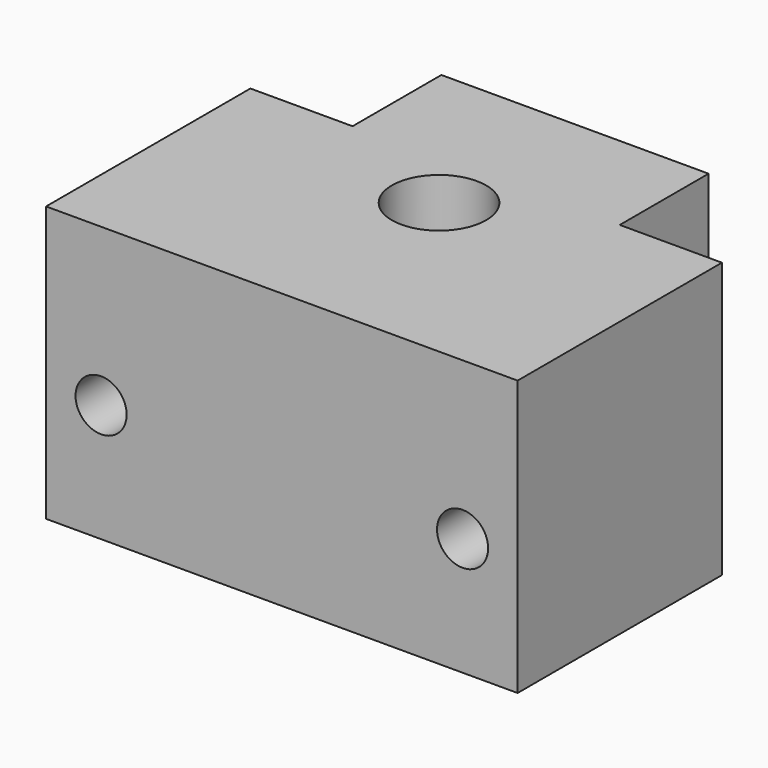
from build123d import *

# Parameters (mm, degrees)
SKETCH_R     = 6
PAD_DEPTH    = 35
SKETCH001_R  = 3.25
POCKET_DEPTH = 32.501


with BuildPart() as part:
    # Sketch → Pad (new body)
    with BuildSketch(Plane.XY):
        Polygon((-17, 21.625642), (17, 21.625642), (17, 7.5), (30, 7.5), (30, -25), (-30, -25), (-30, 7.5), (-17, 7.5), align=None)
        Circle(SKETCH_R, mode=Mode.SUBTRACT)
    extrude(amount=PAD_DEPTH)

    # Sketch001 (on Face7 of Pad) → Pocket (cut, through all)
    with BuildSketch(Plane(origin=(0, 7.5, 0), x_dir=(-1, 0, 0), z_dir=(0, 1, 0))):
        with Locations((-23, 15)):
            Circle(SKETCH001_R)
        with Locations((23, 15)):
            Circle(SKETCH001_R)
    extrude(amount=-POCKET_DEPTH, mode=Mode.SUBTRACT)


solid = part.part
